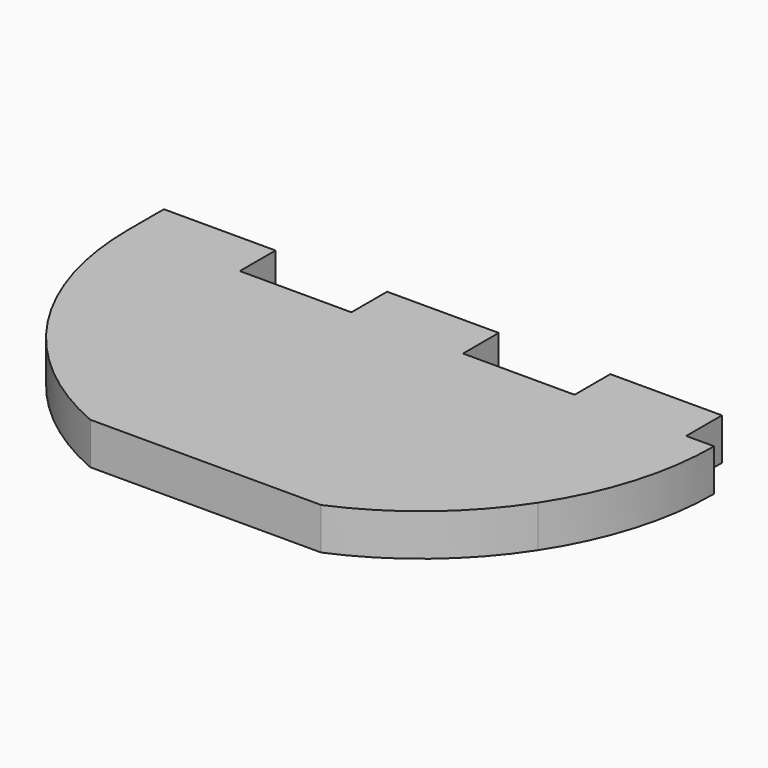
from build123d import *

# Parameters (mm, degrees)
F1_DEPTH = 3


with BuildPart() as f1:
    # F0 (on Top) → F1 (new body)
    with BuildSketch(Plane.XY):
        with BuildLine():
            Line((-21, 3.2), (-21, 0))
            ThreePointArc((-21, 0), (-20.124574, -6.000127), (-17.571283, -11.5))
            ThreePointArc((-17.571283, -11.5), (-13.499794, -16.085881), (-8.277077, -19.3))
            Line((-8.277077, -19.3), (8.277077, -19.3))
            ThreePointArc((8.277077, -19.3), (13.499794, -16.085881), (17.571283, -11.5))
            ThreePointArc((17.571283, -11.5), (20.124574, -6.000127), (21, 0))
            Line((21, 0), (19, 0))
            Line((19, 0), (19, 3.2))
            Line((19, 3.2), (11, 3.2))
            Line((11, 3.2), (11, 0))
            Line((11, 0), (3, 0))
            Line((3, 0), (3, 3.2))
            Line((3, 3.2), (-5, 3.2))
            Line((-5, 3.2), (-5, 0))
            Line((-5, 0), (-13, 0))
            Line((-13, 0), (-13, 3.2))
            Line((-13, 3.2), (-21, 3.2))
        make_face()
    extrude(amount=F1_DEPTH)


solid = f1.part
